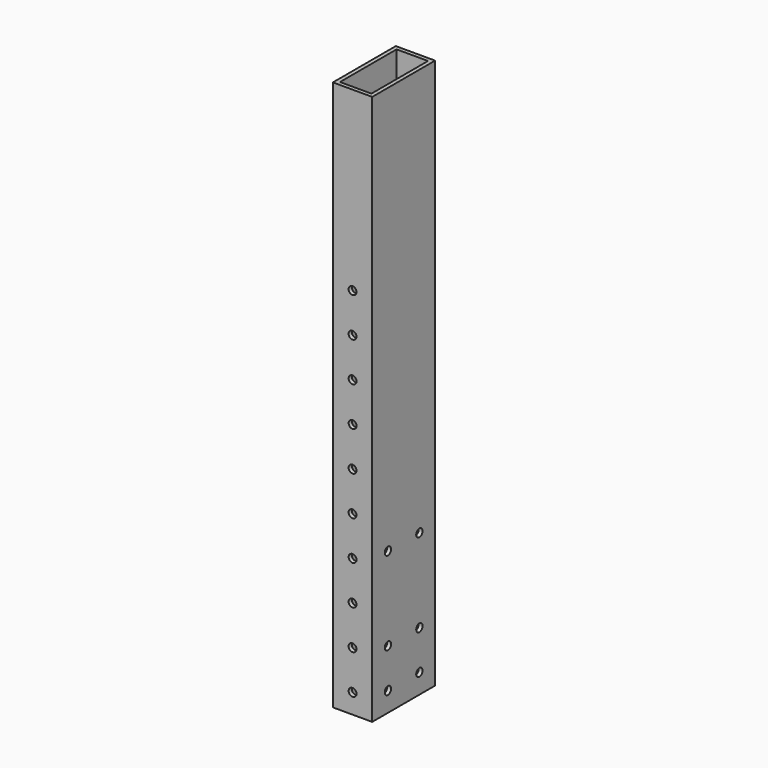
from build123d import *

# Parameters (mm, degrees)
F0_W     = 25.4
F0_H     = 50.8
F0_W_2   = 20.32
F0_H_2   = 45.72
F1_DEPTH = 355.6
F2_R     = 2.5527
F3_DEPTH = 50.8
F4_R     = 2.5527
F5_DEPTH = 25.4


with BuildPart() as f1:
    # F0 (on Top) → F1 (new body)
    with BuildSketch(Plane.XY):
        with Locations((12.7, -25.4)):
            Rectangle(F0_W, F0_H)
        with Locations((12.7, -25.4)):
            Rectangle(F0_W_2, F0_H_2, mode=Mode.SUBTRACT)
    extrude(amount=F1_DEPTH)

    # F2 (on face) → F3 (cut)
    with BuildSketch(Plane.XZ.offset(50.8)):
        with Locations((12.7, 139.7)):
            Circle(F2_R)
        with Locations((12.7, 114.3)):
            Circle(F2_R)
        with Locations((12.7, 88.9)):
            Circle(F2_R)
        with Locations((12.7, 63.5)):
            Circle(F2_R)
        with Locations((12.7, 38.1)):
            Circle(F2_R)
        with Locations((12.7, 12.7)):
            Circle(F2_R)
        with Locations((12.7, 165.1)):
            Circle(F2_R)
        with Locations((12.7, 190.5)):
            Circle(F2_R)
        with Locations((12.7, 215.9)):
            Circle(F2_R)
        with Locations((12.7, 241.3)):
            Circle(F2_R)
    extrude(amount=-F3_DEPTH, mode=Mode.SUBTRACT)

    # F4 (on face) → F5 (cut)
    with BuildSketch(Plane.YZ.offset(25.4)):
        with Locations((-38.1, 38.1)):
            Circle(F4_R)
        with Locations((-12.7, 38.1)):
            Circle(F4_R)
        with Locations((-12.7, 12.7)):
            Circle(F4_R)
        with Locations((-38.1, 12.7)):
            Circle(F4_R)
        with Locations((-38.1, 92.075)):
            Circle(F4_R)
        with Locations((-12.7, 92.075)):
            Circle(F4_R)
    extrude(amount=-F5_DEPTH, mode=Mode.SUBTRACT)


solid = f1.part
